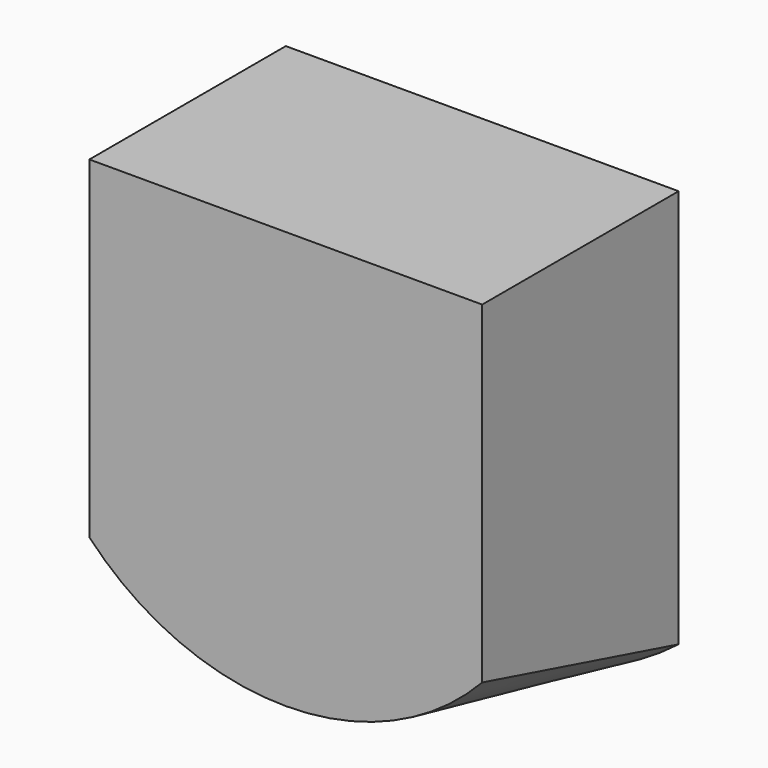
from build123d import *

# Parameters (mm, degrees)
F0_W     = 40
F0_H     = 25
F1_DEPTH = 25


with BuildPart() as f1:
    # F0 (on Front) → F1 (new body)
    with BuildSketch(Plane.XZ):
        with Locations((0, 2.5)):
            Rectangle(F0_W, F0_H)
    extrude(amount=F1_DEPTH)

    # F3 (on face) → F4 section 0
    with BuildSketch(Plane(origin=(0, 0, 0), x_dir=(-1, 0, 0), z_dir=(0, 1, 0))):
        with BuildLine():
            Line((-20, -10), (-20, -25.617377))
            ThreePointArc((-20, -25.617377), (0, -32.5), (20, -25.617377))
            Line((20, -25.617377), (20, -10))
            Line((20, -10), (-20, -10))
        make_face()
    # F2 (on face) → F4 section 1
    with BuildSketch(Plane.XZ.offset(25)):
        with BuildLine():
            Line((-20, -10), (-20, -18.874586))
            ThreePointArc((-20, -18.874586), (0, -27.5), (20, -18.874586))
            Line((20, -18.874586), (20, -10))
            Line((20, -10), (-20, -10))
        make_face()
    loft()


solid = f1.part
